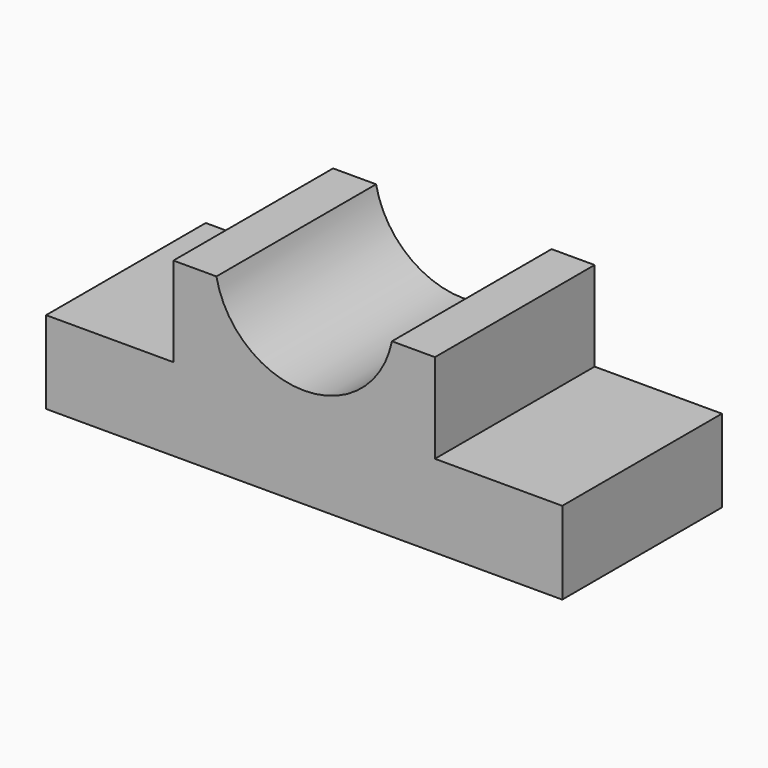
from build123d import *

# Parameters (mm, degrees)
F1_DEPTH = 147.32


with BuildPart() as f1:
    # F0 (on Front) → F1 (new body)
    with BuildSketch(Plane.XZ):
        Polygon((-212.958432, 62.320832), (-306.938432, 62.320832), (-306.938432, 1.360832), (74.061568, 1.360832), (74.061568, 62.320832), (-19.918432, 62.320832), align=None)
        with BuildLine():
            Line((-212.958432, 128.360832), (-212.958432, 62.320832))
            Line((-212.958432, 62.320832), (-19.918432, 62.320832))
            Line((-19.918432, 62.320832), (-19.918432, 128.360832))
            Line((-19.918432, 128.360832), (-51.668432, 128.360832))
            ThreePointArc((-51.668432, 128.360832), (-116.438432, 75.209924), (-181.208432, 128.360832))
            Line((-181.208432, 128.360832), (-212.958432, 128.360832))
        make_face()
    extrude(amount=F1_DEPTH)


solid = f1.part
